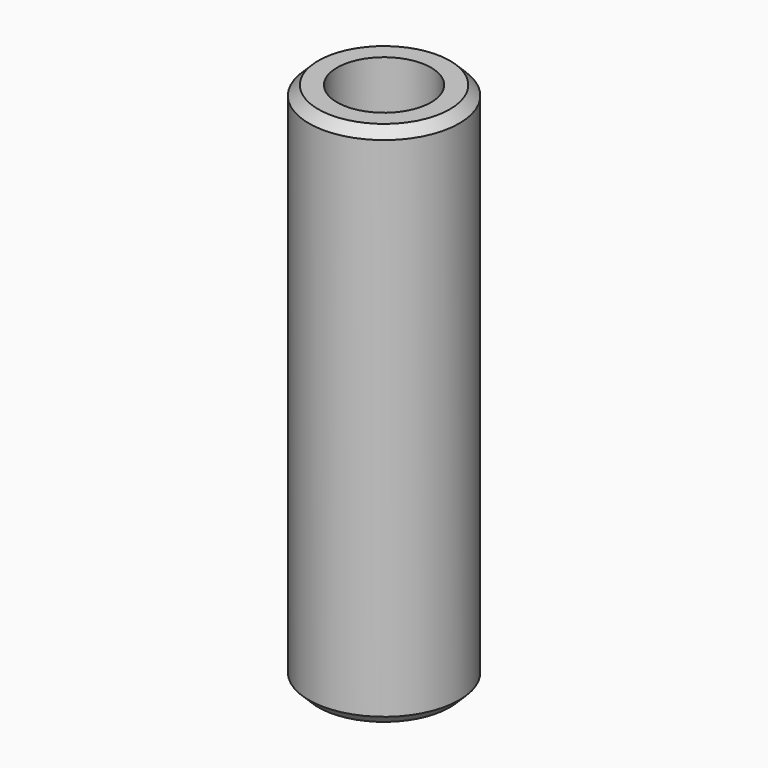
from build123d import *

# Parameters (mm, degrees)
SKETCH_R     = 4
SKETCH_R_2   = 2.5
PAD_DEPTH    = 28
CHAMFER_SIZE = 0.5


with BuildPart() as part:
    # Sketch → Pad (new body)
    with BuildSketch(Plane.XY):
        Circle(SKETCH_R)
        Circle(SKETCH_R_2, mode=Mode.SUBTRACT)
    extrude(amount=PAD_DEPTH)

    # Chamfer
    chamfer_edges = [part.edges().sort_by_distance(p)[0] for p in [
        (-4, 0, 28),
        (-4, 0, 0),
    ]]
    chamfer(chamfer_edges, length=CHAMFER_SIZE)


solid = part.part
